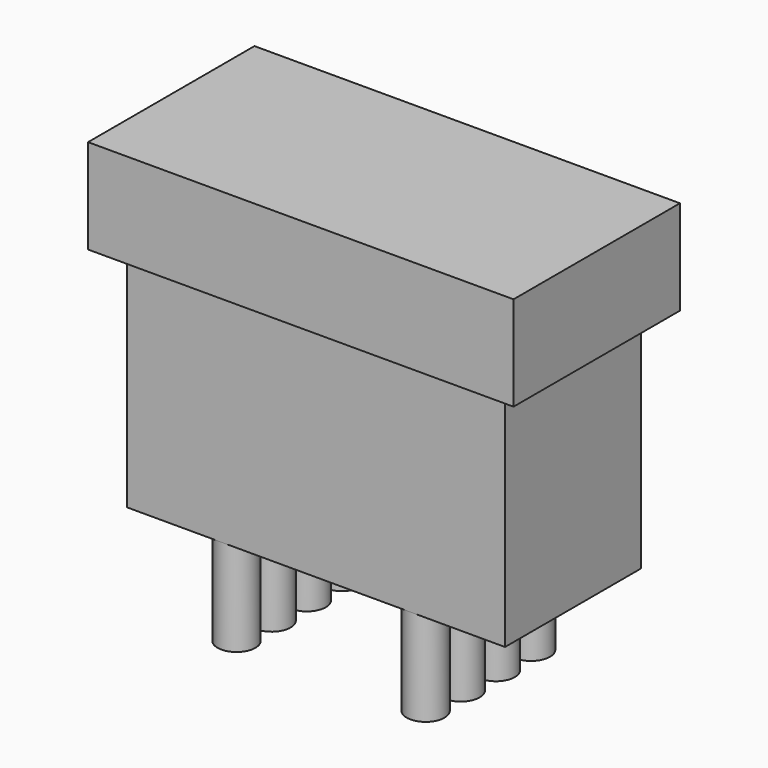
from build123d import *

# Parameters (mm, degrees)
F0_W     = 45
F0_H     = 22
F0_W_2   = 40
F0_H_2   = 18
F1_DEPTH = 10
F2_DEPTH = 24
F3_R     = 2
F4_DEPTH = 10


with BuildPart() as f1:
    # F0 (on Top) → F1 (new body)
    with BuildSketch(Plane.XY):
        with Locations((-36.311314, -9.456807)):
            Rectangle(F0_W, F0_H)
        with Locations((-36.311314, -9.456807)):
            Rectangle(F0_W_2, F0_H_2, mode=Mode.SUBTRACT)
        with Locations((-36.311314, -9.456807)):
            Rectangle(F0_W_2, F0_H_2)
    extrude(amount=F1_DEPTH)

    # F0 (on Top) → F2 (join)
    with BuildSketch(Plane.XY):
        with Locations((-36.311314, -9.456807)):
            Rectangle(F0_W_2, F0_H_2)
    extrude(amount=-F2_DEPTH)

    # F3 (on face) → F4 (join)
    with BuildSketch(Plane(origin=(0, 0, -24), x_dir=(1, 0, 0), z_dir=(0, 0, -1))):
        with Locations((-46.311314, 16.456807)):
            Circle(F3_R)
        with Locations((-46.311314, 11.806807)):
            Circle(F3_R)
        with Locations((-46.311314, 7.156807)):
            Circle(F3_R)
        with Locations((-46.311314, 2.506807)):
            Circle(F3_R)
        with Locations((-26.311314, 16.456807)):
            Circle(F3_R)
        with Locations((-26.311314, 11.806807)):
            Circle(F3_R)
        with Locations((-26.311314, 7.156807)):
            Circle(F3_R)
        with Locations((-26.311314, 2.506807)):
            Circle(F3_R)
    extrude(amount=F4_DEPTH)


solid = f1.part
